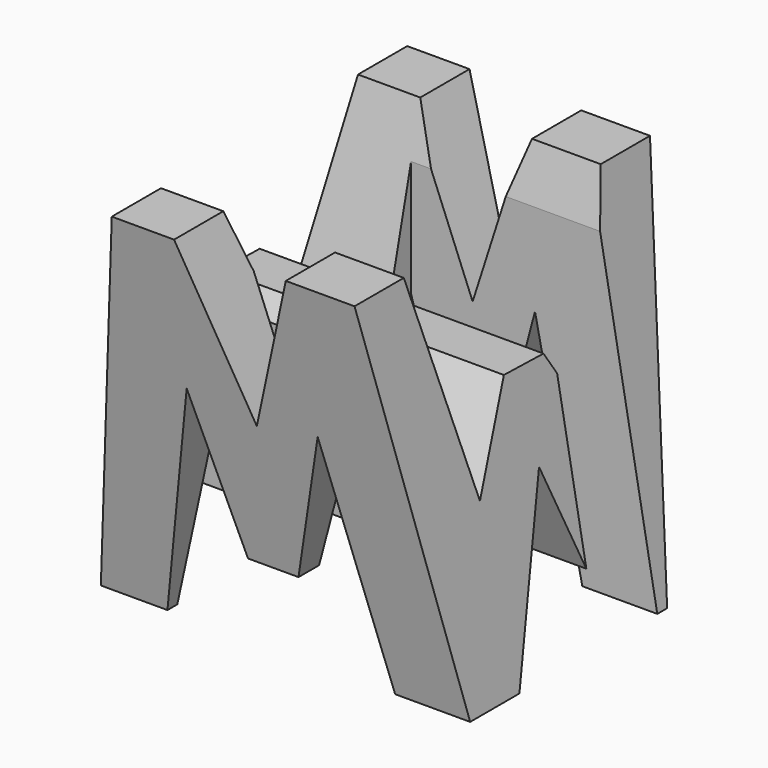
from build123d import *

# Parameters (mm, degrees)
F0_W      = 38.1
F0_H      = 38.1
F1_DEPTH  = 38.1
F6_DEPTH  = 38.1
F8_DEPTH  = 38.1
F9_W      = 25.4
F9_H      = 7.62
F10_DEPTH = 38.1


with BuildPart() as f1:
    # F0 (on Front) → F1 (new body)
    with BuildSketch(Plane.XZ):
        with Locations((19.05, 19.05)):
            Rectangle(F0_W, F0_H)
    extrude(amount=F1_DEPTH)

    # F4 (on face) → F6 (cut)
    with BuildSketch(Plane.YZ.offset(38.1)):
        Polygon((-6.35, 38.1), (-31.75, 38.1), (-26.67, 17.005277), (-21.59, 25.867645), (-16.51, 25.753345), (-11.43, 17.005277), align=None)
        Polygon((-31.75, 0), (-38.1, 38.1), (-38.1, 0), align=None)
        Polygon((0, 0), (0, 38.1), (-6.35, 0), align=None)
        Polygon((-19.05, 17.005277), (-25.4, 0), (-12.7, 0), align=None)
    extrude(amount=-F6_DEPTH, mode=Mode.SUBTRACT)

    # F7 (on offset) → F8 (cut)
    with BuildSketch(Plane.XZ.offset(38.1)):
        Polygon((0, 38.1), (0, 0), (6.205763, 38.1), align=None)
        Polygon((11.968254, 23.367919), (6.870665, 0), (30.363908, 0), (25.482736, 23.367919), (21.498529, 8.313587), (16.292483, 8.313587), align=None)
        Polygon((31.250443, 38.1), (38.1, 0), (38.1, 38.1), align=None)
        Polygon((24.158144, 38.1), (12.633159, 38.1), (19.05, 22.168303), align=None)
    extrude(amount=-F8_DEPTH, mode=Mode.SUBTRACT)

    # F9 (on offset) → F10 (cut)
    with BuildSketch(Plane.XY.offset(38.1)):
        with Locations((25.4, -11.43)):
            Rectangle(F9_W, F9_H)
        with Locations((12.7, -26.67)):
            Rectangle(F9_W, F9_H)
    extrude(amount=-F10_DEPTH, mode=Mode.SUBTRACT)


solid = f1.part
